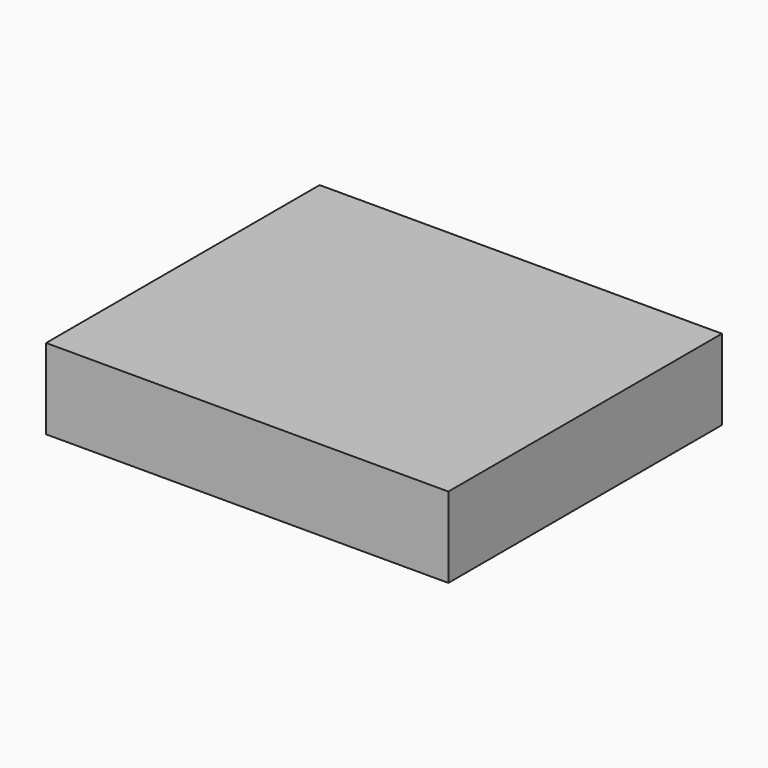
from build123d import *

# Parameters (mm, degrees)
F0_W     = 127
F0_H     = 107.95
F1_DEPTH = 25.4
F2_W     = 25.4
F2_H     = 19.05
F3_DEPTH = 6.35


with BuildPart() as f1:
    # F0 (on Top) → F1 (new body)
    with BuildSketch(Plane.XY):
        with Locations((-0.822568, -2.498812)):
            Rectangle(F0_W, F0_H)
    extrude(amount=F1_DEPTH)


with BuildPart() as f3:
    # F2 (on Top) → F3 (new body, symmetric)
    with BuildSketch(Plane.XY):
        with Locations((-38.922568, 29.251188)):
            Rectangle(F2_W, F2_H)
    extrude(amount=F3_DEPTH, both=True)


solid = Compound([f1.part, f3.part])
